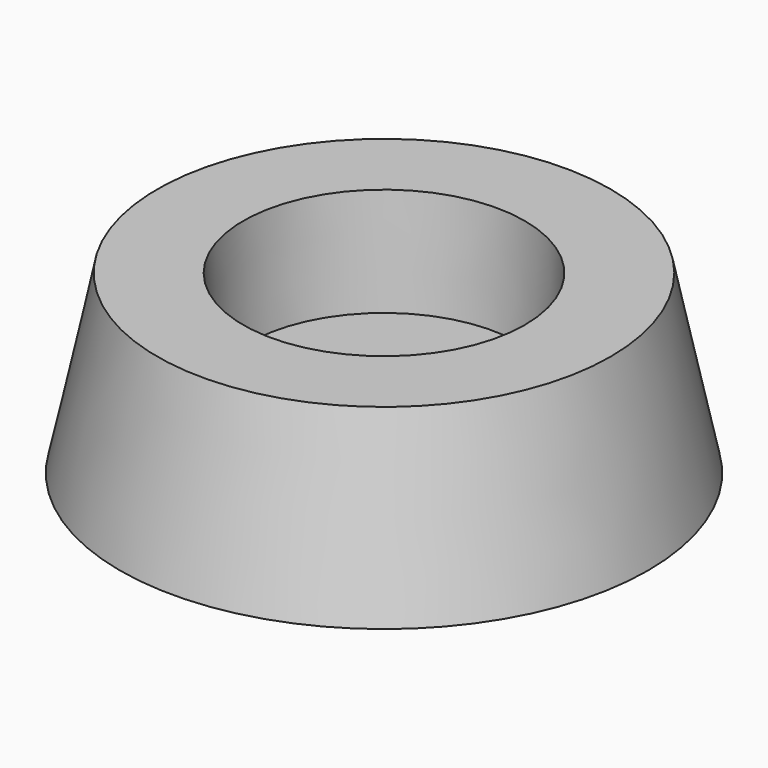
from build123d import *

# Parameters (mm, degrees)
F0_R     = 15
F1_DEPTH = 10
F1_TAPER = 12
F2_R     = 8
F3_DEPTH = 6
F3_TAPER = 3
F4_R     = 1.725
F5_DEPTH = 4


with BuildPart() as f1:
    # F0 (on Top) → F1 (new body)
    with BuildSketch(Plane.XY):
        Circle(F0_R)
    extrude(amount=F1_DEPTH, taper=F1_TAPER)

    # F2 (on face) → F3 (cut)
    with BuildSketch(Plane.XY.offset(10)):
        Circle(F2_R)
    extrude(amount=-F3_DEPTH, taper=F3_TAPER, mode=Mode.SUBTRACT)

    # F4 (on face) → F5 (cut, through all)
    with BuildSketch(Plane.XY.offset(4)):
        Circle(F4_R)
    extrude(amount=-F5_DEPTH, mode=Mode.SUBTRACT)


solid = f1.part
